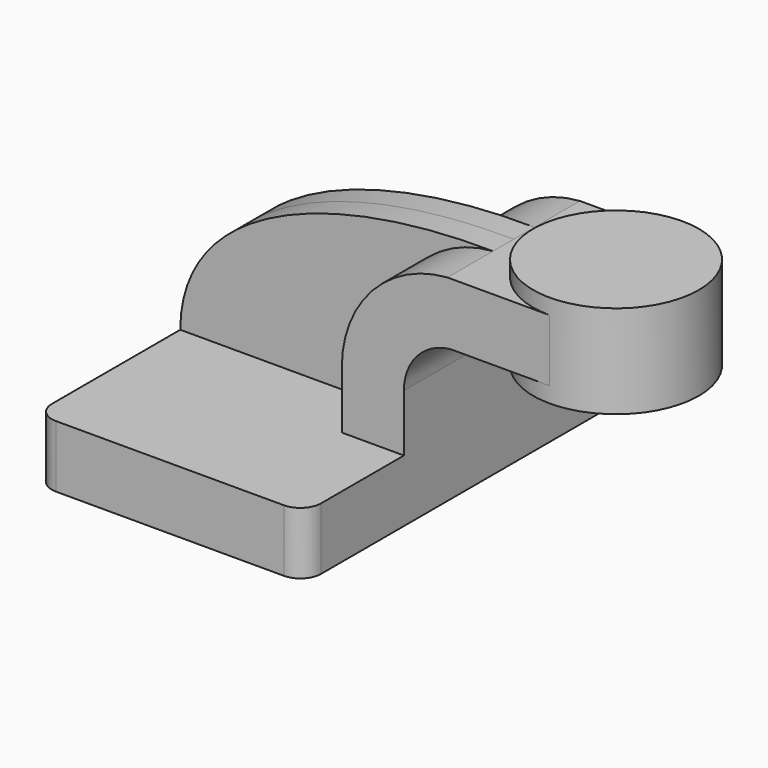
from build123d import *

# Parameters (mm, degrees)
F1_DEPTH = 63.5
F2_DEPTH = 25.4
F3_DEPTH = 7.9375
F0_W     = 25.4
F0_H     = 19.05
F4_DEPTH = 25.4
F6_R     = 6.35


with BuildPart() as f1:
    # F0 (on Front) → F1 (new body, symmetric)
    with BuildSketch(Plane.XZ):
        Polygon((-41.275, 9.525), (-41.275, -9.525), (41.275, -9.525), (41.275, 9.525), (22.225, 9.525), align=None)
    extrude(amount=F1_DEPTH, both=True)

    # F0 (on Front) → F2 (join, symmetric)
    with BuildSketch(Plane.XZ):
        with BuildLine():
            Line((22.225, 9.525), (41.275, 9.525))
            Line((41.275, 9.525), (41.275, 27.09171))
            ThreePointArc((41.275, 27.09171), (45.338224, 37.698197), (55.447923, 42.8752))
            Line((55.447923, 42.8752), (60.583961, 42.8752))
            Line((60.583961, 42.8752), (60.583961, 61.9252))
            Line((60.583961, 61.9252), (54.623422, 61.9252))
            ThreePointArc((54.623422, 61.9252), (31.576612, 50.877366), (22.225, 27.09171))
            Line((22.225, 27.09171), (22.225, 9.525))
        make_face()
    extrude(amount=F2_DEPTH, both=True)

    # F0 (on Front) → F3 (join, symmetric)
    with BuildSketch(Plane.XZ):
        with BuildLine():
            add(Edge.make_bspline(
                [(-41.275, 9.525), (-41.144054, 45.908019), (5.309086, 62.564403), (54.623422, 61.9252)],
                knots=[0, 0, 0, 0, 109.280777, 109.280777, 109.280777, 109.280777], degree=3))
            Line((-41.275, 9.525), (22.225, 9.525))
            Line((22.225, 9.525), (22.225, 27.09171))
            ThreePointArc((22.225, 27.09171), (31.576612, 50.877366), (54.623422, 61.9252))
        make_face()
    extrude(amount=F3_DEPTH, both=True)

    # F0 (on Front) → F4 (join, symmetric)
    with BuildSketch(Plane.XZ):
        with Locations((73.283961, 52.4002)):
            Rectangle(F0_W, F0_H)
    extrude(amount=F4_DEPTH, both=True)

    # F0 (on Front) → F5 (revolve)
    with BuildSketch(Plane.XZ):
        Polygon((85.983961, 66.675), (85.983961, 61.9252), (85.983961, 42.8752), (85.983961, 38.1), (111.383961, 38.1), (111.383961, 66.675), align=None)
    revolve(axis=Axis((85.983961, 0, 52.3875), (0, 0, -1)))

    # F6
    f6_edges = [f1.edges().sort_by_distance(p)[0] for p in [
        (41.275, -63.5, 0),
        (-41.275, -63.5, 0),
        (41.275, 63.5, 0),
        (-41.275, 63.5, 0),
    ]]
    fillet(f6_edges, radius=F6_R)


solid = f1.part
